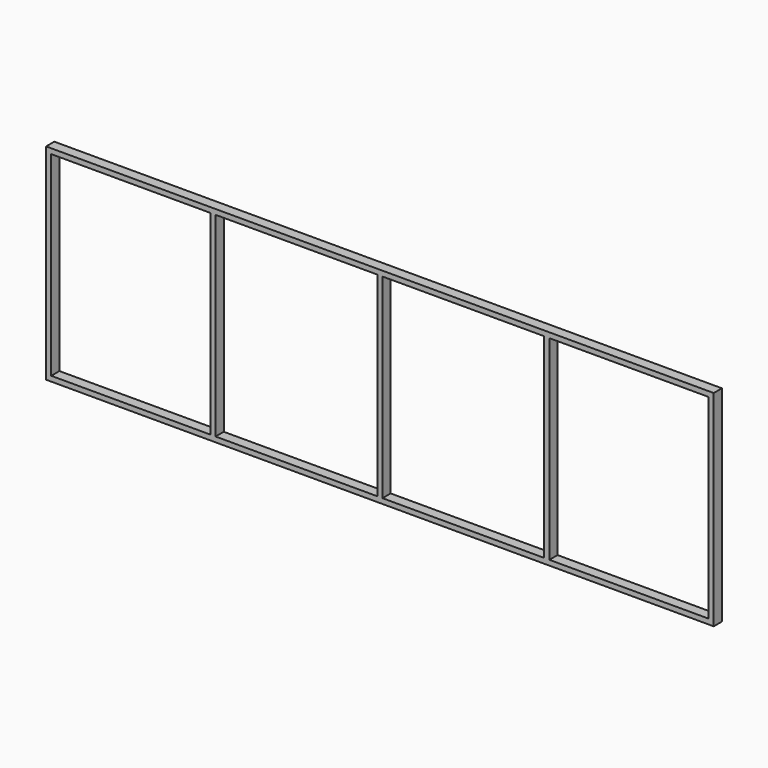
from build123d import *

# Parameters (mm, degrees)
F0_W     = 6500
F0_H     = 2000
F0_W_2   = 6400
F0_H_2   = 1900
F1_DEPTH = 100
F2_W     = 50
F2_H     = 1900
F3_DEPTH = 100
F4_W     = 50
F4_H     = 1900
F5_DEPTH = 100
F6_W     = 50
F6_H     = 1900
F7_DEPTH = 100


with BuildPart() as f1:
    # F0 (on Front) → F1 (new body)
    with BuildSketch(Plane.XZ):
        with Locations((3250, 1000)):
            Rectangle(F0_W, F0_H)
        with Locations((3250, 1000)):
            Rectangle(F0_W_2, F0_H_2, mode=Mode.SUBTRACT)
    extrude(amount=F1_DEPTH)

    # F2 (on face) → F3 (join)
    with BuildSketch(Plane.XZ.offset(100)):
        with Locations((1625, 1000)):
            Rectangle(F2_W, F2_H)
    extrude(amount=-F3_DEPTH)

    # F4 (on face) → F5 (join)
    with BuildSketch(Plane.XZ.offset(100)):
        with Locations((3250, 1000)):
            Rectangle(F4_W, F4_H)
    extrude(amount=-F5_DEPTH)

    # F6 (on face) → F7 (join)
    with BuildSketch(Plane.XZ.offset(100)):
        with Locations((4875, 1000)):
            Rectangle(F6_W, F6_H)
    extrude(amount=-F7_DEPTH)


solid = f1.part
